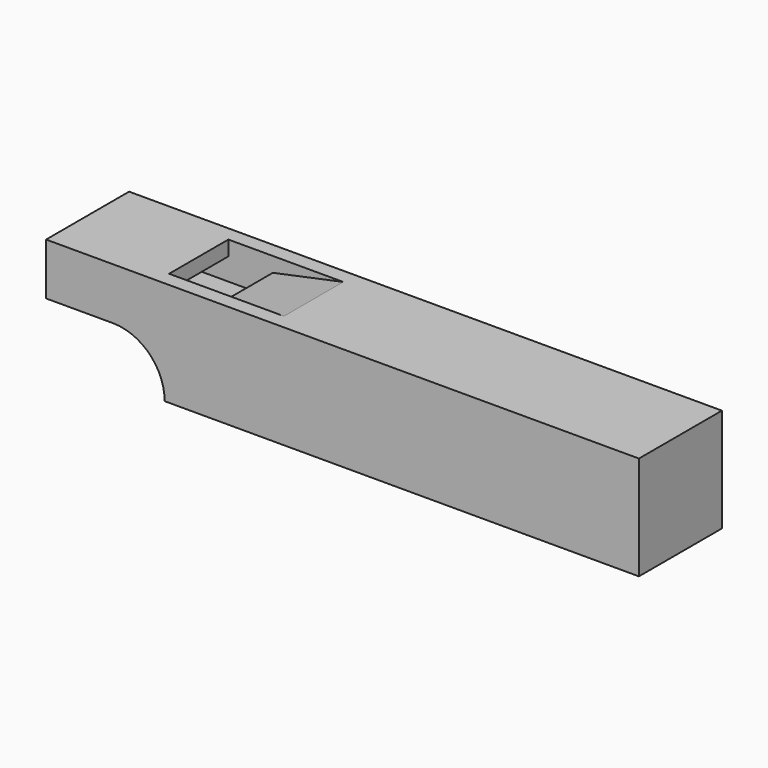
from build123d import *

# Parameters (mm, degrees)
F1_DEPTH = 2
F2_W     = 15
F2_H     = 2
F3_DEPTH = 5


with BuildPart() as f1:
    # F0 (on Front) → F1 (new body)
    with BuildSketch(Plane.XZ):
        with BuildLine():
            ThreePointArc((9, 7), (13.9497474683, 4.9497474683), (16, 0))
            Line((16, 0), (80, 0))
            Line((80, 0), (80, 14))
            Line((80, 14), (0, 14))
            Line((0, 14), (0, 7))
            Line((0, 7), (9, 7))
        make_face()
    extrude(amount=F1_DEPTH)

    # F2 (on face) → F3 (join)
    with BuildSketch(Plane.XZ.offset(2)):
        with BuildLine():
            Line((17.7749643874, 9), (0, 9))
            Line((0, 9), (0, 7))
            Line((0, 7), (9, 7))
            ThreePointArc((9, 7), (13.9497474683, 4.9497474683), (16, 0))
            Line((16, 0), (80, 0))
            Line((80, 0), (80, 14))
            Line((80, 14), (30.5, 14))
            Line((30.5, 14), (21, 12))
            Line((21, 12), (78, 12))
            Line((78, 12), (78, 2))
            Line((78, 2), (17.7749643874, 2))
            Line((17.7749643874, 2), (17.7749643874, 9))
        make_face()
        with Locations((7.5, 13)):
            Rectangle(F2_W, F2_H)
    extrude(amount=F3_DEPTH)

    # F4: F1 across face


with BuildPart() as f1_1:
    add(f1.part)
    add(f1.part.mirror(Plane(origin=(45.1805632689, -7, 6.6042722169), x_dir=(1, 0, 0), z_dir=(0, -1, 0))))


solid = f1_1.part
